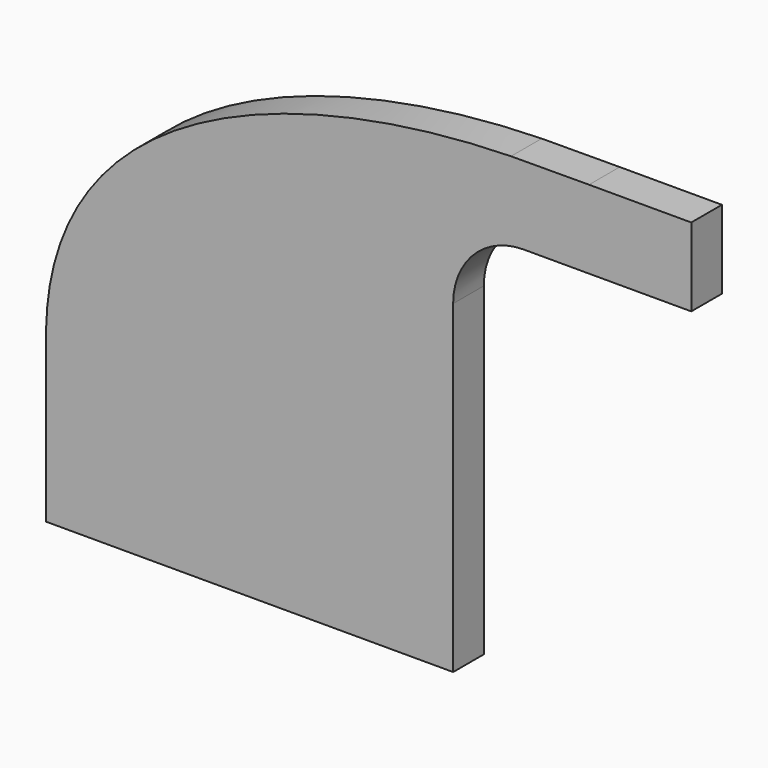
from build123d import *

# Parameters (mm, degrees)
F0_W     = 25.4
F0_H     = 19.454797
F1_DEPTH = 9.525


with BuildPart() as f1:
    # F0 (on Front) → F1 (new body)
    with BuildSketch(Plane.XZ):
        with BuildLine():
            Line((31.188, 59.531837), (31.188, 21.072973))
            Line((31.188, 21.072973), (50.575136, 21.072973))
            Line((50.575136, 21.072973), (50.575136, 59.531837))
            ThreePointArc((50.575136, 59.531837), (55.709947, 71.928369), (68.106479, 77.06318))
            Line((68.106479, 77.06318), (84.342325, 77.06318))
            Line((84.342325, 77.06318), (84.342325, 96.517977))
            Line((84.342325, 96.517977), (64.955189, 96.437562))
            Line((64.955189, 96.437562), (64.955189, 96.315576))
            ThreePointArc((64.955189, 96.315576), (40.909835, 84.498147), (31.188, 59.531837))
        make_face()
        Polygon((31.188, 21.072973), (-50.575136, 21.072973), (-50.575136, -21.072973), (50.575136, -21.072973), (50.575136, 21.072973), align=None)
        with BuildLine():
            add(Edge.make_bspline(
                [(64.955189, 96.437562), (13.070383, 95.364928), (-49.412239, 75.710766), (-50.575136, 21.072973)],
                knots=[0, 0, 0, 0, 137.938672, 137.938672, 137.938672, 137.938672], degree=3))
            Line((-50.575136, 21.072973), (31.188, 21.072973))
            Line((31.188, 21.072973), (31.188, 59.531837))
            ThreePointArc((31.188, 59.531837), (40.909835, 84.498147), (64.955189, 96.315576))
            Line((64.955189, 96.315576), (64.955189, 96.437562))
        make_face()
        with Locations((97.042325, 86.790579)):
            Rectangle(F0_W, F0_H)
    extrude(amount=F1_DEPTH)


solid = f1.part
